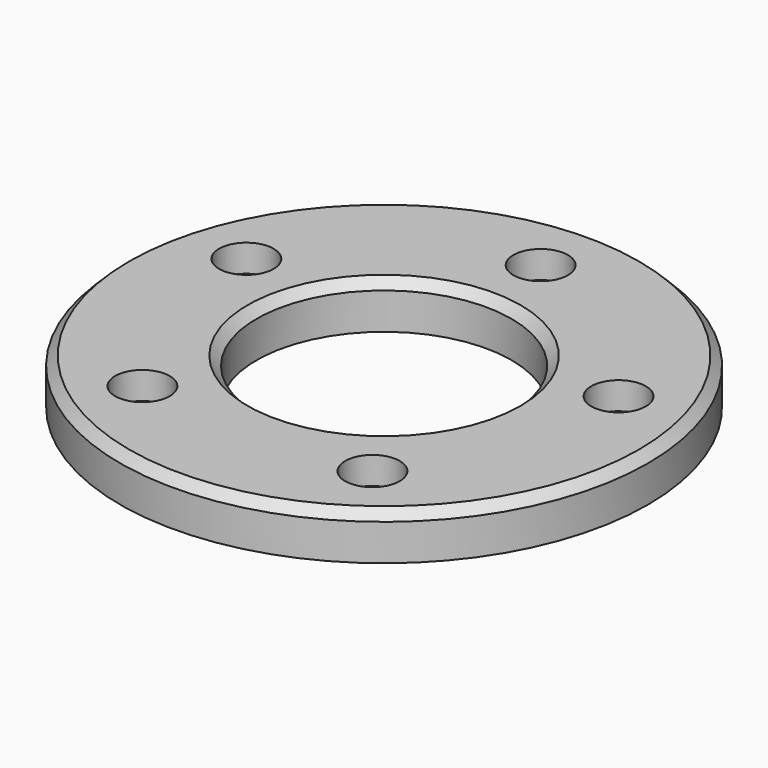
from build123d import *

# Parameters (mm, degrees)
F0_R     = 29
F0_R_2   = 14
F1_DEPTH = 5
F2_R     = 3
F3_DEPTH = 3
F4_R     = 1
F5_DEPTH = 3
F6_SIZE  = 1


with BuildPart() as f1:
    # F0 (on Top) → F1 (new body)
    with BuildSketch(Plane.XY):
        Circle(F0_R)
        Circle(F0_R_2, mode=Mode.SUBTRACT)
    extrude(amount=F1_DEPTH)

    # F2 (on face) → F3 (cut)
    with BuildSketch(Plane.XY.offset(5)):
        with Locations((0, 21.5)):
            Circle(F2_R)
        with Locations((-20.447715, 6.643865)):
            Circle(F2_R)
        with Locations((-12.637383, -17.393865)):
            Circle(F2_R)
        with Locations((12.637383, -17.393865)):
            Circle(F2_R)
        with Locations((20.447715, 6.643865)):
            Circle(F2_R)
    extrude(amount=-F3_DEPTH, mode=Mode.SUBTRACT)

    # F4 (on face) → F5 (cut)
    with BuildSketch(Plane.XY.offset(2)):
        with Locations((0, 21.5)):
            Circle(F4_R)
        with Locations((-20.447715, 6.643865)):
            Circle(F4_R)
        with Locations((-12.637383, -17.393865)):
            Circle(F4_R)
        with Locations((12.637383, -17.393865)):
            Circle(F4_R)
        with Locations((20.447715, 6.643865)):
            Circle(F4_R)
    extrude(amount=-F5_DEPTH, mode=Mode.SUBTRACT)

    # F6
    f6_edges = [f1.edges().sort_by_distance(p)[0] for p in [
        (-29, 0, 5),
        (-14, 0, 5),
    ]]
    chamfer(f6_edges, length=F6_SIZE)


solid = f1.part
